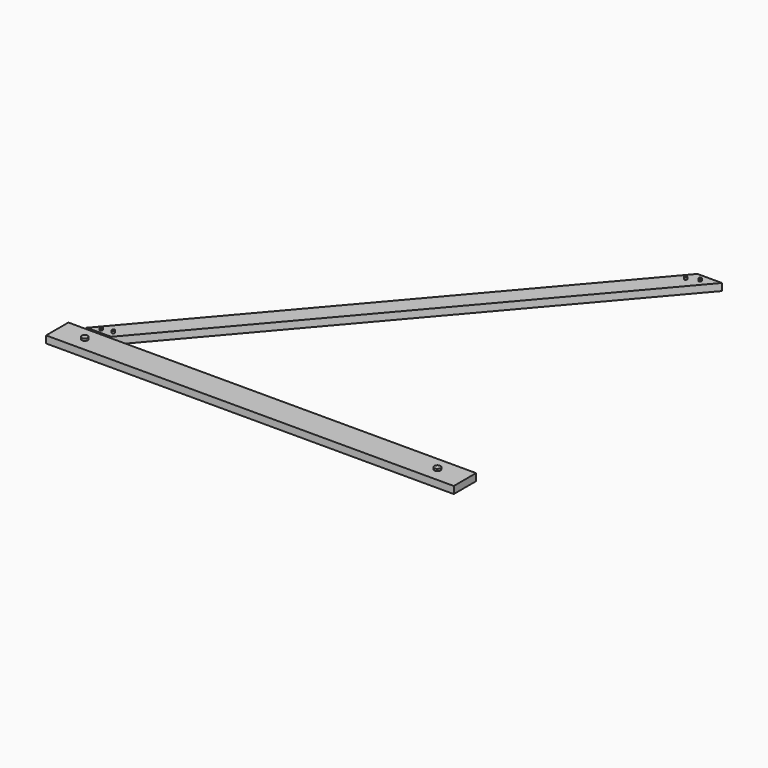
from build123d import *

# Parameters (mm, degrees)
F1_DEPTH = 0.889
F3_DEPTH = 0.381
F4_R     = 0.1778
F4_R_2   = 0.381
F5_DEPTH = 0.254


with BuildPart() as f1:
    # F0 (on Top) → F1 (new body)
    with BuildSketch(Plane.XY):
        Polygon((-24.947381, -12.216053), (-26.81388, -12.216053), (-26.81388, -15.690773), (23.98612, -15.690773), (23.98612, -12.216053), (-21.899363, -12.216053), (17.63612, 34.014853), (14.588101, 34.014853), align=None)
    extrude(amount=F1_DEPTH)

    # F2 (on face) → F3 (cut)
    with BuildSketch(Plane.XY.offset(0.889)):
        Polygon((-24.730167, -11.962053), (-24.947381, -12.216053), (-21.899363, -12.216053), (-21.682148, -11.962053), align=None)
    extrude(amount=-F3_DEPTH, mode=Mode.SUBTRACT)

    # F4 (on face) → F5 (join)
    with BuildSketch(Plane.XY.offset(0.889)):
        with Locations((-23.361975, -11.435006)):
            Circle(F4_R)
        with Locations((-22.067515, -11.142211)):
            Circle(F4_R)
        with Locations((-23.38488, -13.950873)):
            Circle(F4_R_2)
        with Locations((15.699644, 33.05497)):
            Circle(F4_R)
        with Locations((14.366657, 32.453973)):
            Circle(F4_R)
        with Locations((20.55712, -13.950873)):
            Circle(F4_R_2)
    extrude(amount=F5_DEPTH)


solid = f1.part
